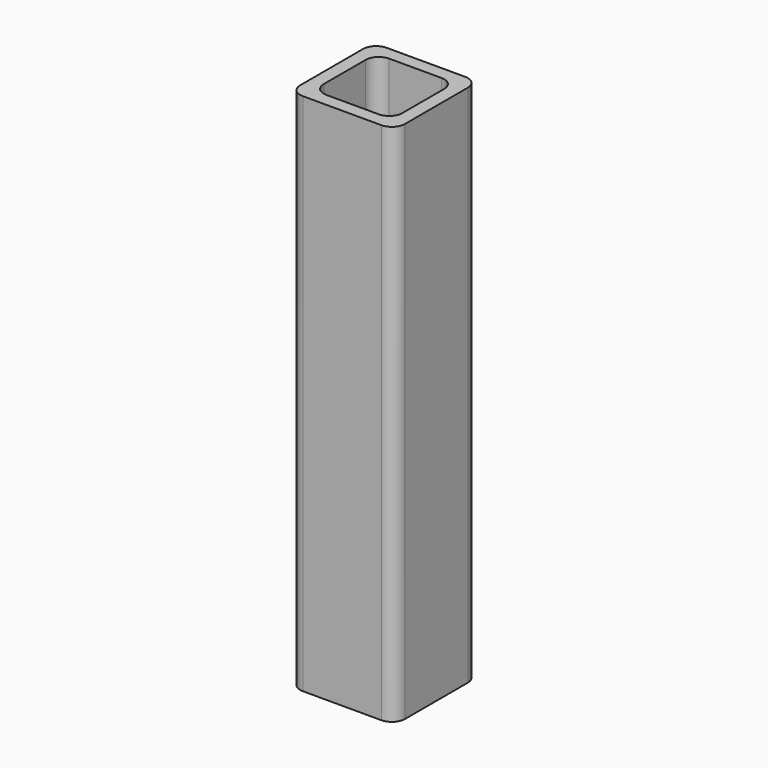
from build123d import *

# Parameters (mm, degrees)
F0_W     = 50.8
F0_H     = 50.8
F0_W_2   = 38.1
F0_H_2   = 38.1
F1_DEPTH = 254
F2_R     = 6.35
F3_R     = 6.35


with BuildPart() as f1:
    # F0 (on Top) → F1 (new body)
    with BuildSketch(Plane.XY):
        Rectangle(F0_W, F0_H)
        Rectangle(F0_W_2, F0_H_2, mode=Mode.SUBTRACT)
    extrude(amount=F1_DEPTH)

    # F2
    f2_edges = [f1.edges().sort_by_distance(p)[0] for p in [
        (-25.4, 25.4, 127),
        (-25.4, -25.4, 127),
        (19.05, -19.05, 127),
        (25.4, 25.4, 127),
        (-19.05, -19.05, 127),
        (-19.05, 19.05, 127),
        (19.05, 19.05, 127),
    ]]
    fillet(f2_edges, radius=F2_R)

    # F3
    f3_edges = [f1.edges().sort_by_distance(p)[0] for p in [
        (25.4, -25.4, 127),
    ]]
    fillet(f3_edges, radius=F3_R)


solid = f1.part
